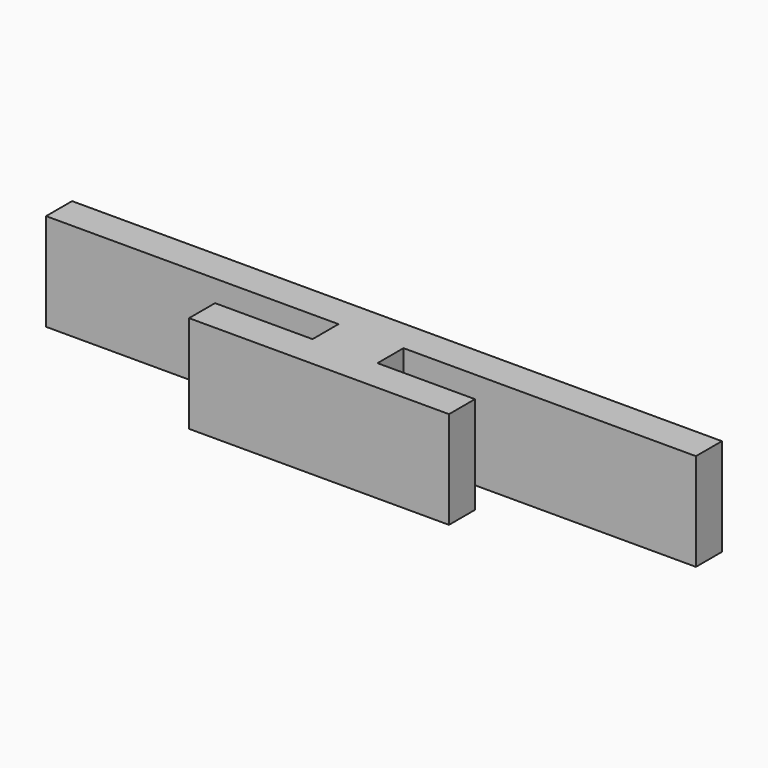
from build123d import *

# Parameters (mm, degrees)
F0_W     = 1
F0_H     = 1
F1_DEPTH = 3


with BuildPart() as f1:
    # F0 (on Top) → F1 (new body)
    with BuildSketch(Plane.XY):
        Polygon((0, 9.461539), (-10, 9.461539), (-10, 8.461539), (-1, 8.461539), (0, 8.461539), align=None)
        Polygon((10, 9.461539), (0, 9.461539), (0, 8.461539), (1, 8.461539), (10, 8.461539), align=None)
        with Locations((-0.5, 7.961539)):
            Rectangle(F0_W, F0_H)
        with Locations((0.5, 7.961539)):
            Rectangle(F0_W, F0_H)
        Polygon((0, 6.461539), (0, 7.461539), (-1, 7.461539), (-4, 7.461539), (-4, 6.461539), align=None)
        Polygon((1, 7.461539), (0, 7.461539), (0, 6.461539), (4, 6.461539), (4, 7.461539), align=None)
    extrude(amount=F1_DEPTH)


solid = f1.part
